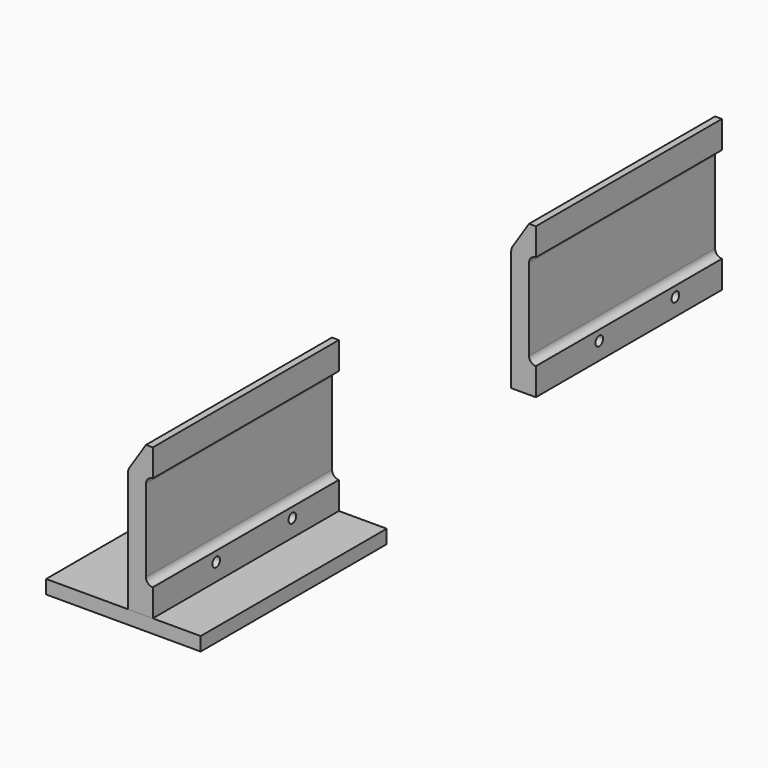
from build123d import *

# Parameters (mm, degrees)
F2_DEPTH = 170
F4_R     = 1.5
F5_DEPTH = 10.001
F6_R     = 3.5
F7_DEPTH = 53.001
F8_W     = 9
F8_H     = 9
F8_R     = 1.5
F9_DEPTH = 4


with BuildPart() as f2:
    # F1 (on Front) → F2 (new body)
    with BuildSketch(Plane.XZ):
        with BuildLine():
            Line((18, 51.6239212343), (18, 71.6239212343))
            Line((18, 71.6239212343), (13, 71.6239212343))
            Line((13, 71.6239212343), (0.8077819185, 52.8666626474))
            ThreePointArc((0.8077819185, 52.8666626474), (0.2061972085, 51.5627961198), (0, 50.1417208944))
            Line((0, 50.1417208944), (0, -38.3760787657))
            Line((0, -38.3760787657), (18, -38.3760787657))
            Line((18, -38.3760787657), (18, -18.3760787657))
            ThreePointArc((18, -18.3760787657), (14.4644660941, -16.9116126716), (13, -13.3760787657))
            Line((13, -13.3760787657), (13, 46.6239212343))
            ThreePointArc((13, 46.6239212343), (14.4644660941, 50.1594551402), (18, 51.6239212343))
        make_face()
    extrude(amount=-F2_DEPTH)

    # F6 (on face) → F7 (cut, through all)
    with BuildSketch(Plane(origin=(0, 0, 0), x_dir=(0, -1, 0), z_dir=(-1, 0, 0))):
        with Locations((-127.5, -25.6760787657)):
            Circle(F6_R)
        with Locations((-57.95, -25.6760787657)):
            Circle(F6_R)
    extrude(amount=-F7_DEPTH, mode=Mode.SUBTRACT)


with BuildPart() as f2b:
    # F0 (on Front) → F2, piece 2 (new body)
    with BuildSketch(Plane.XZ):
        Polygon((18, -38.3760787657), (0, -38.3760787657), (-60, -38.3760787657), (-60, -48.3760787657), (53, -48.3760787657), (53, -38.3760787657), align=None)
    extrude(amount=-F2_DEPTH)

    # F4 (on face) → F5 (cut, through all)
    with BuildSketch(Plane.XY.offset(-38.3760787657)):
        with Locations((-17.1, 120)):
            Circle(F4_R)
        with Locations((-33, 120)):
            Circle(F4_R)
        with Locations((-17.1, 135.9)):
            Circle(F4_R)
        with Locations((-17.1, 65.9)):
            Circle(F4_R)
        with Locations((-17.1, 50)):
            Circle(F4_R)
        with Locations((-33, 50)):
            Circle(F4_R)
    extrude(amount=-F5_DEPTH, mode=Mode.SUBTRACT)

    # F8 (on face) → F9 (cut)
    with BuildSketch(Plane(origin=(0, 0, -48.3760787657), x_dir=(1, 0, 0), z_dir=(0, 0, -1))):
        with Locations((-17.0500762761, -135.6344968081)):
            Rectangle(F8_W, F8_H)
        with Locations((-17.1, -135.9)):
            Circle(F8_R, mode=Mode.SUBTRACT)
        with Locations((-32.7563302517, -119.9616284966)):
            Rectangle(F8_W, F8_H)
        with Locations((-33, -120)):
            Circle(F8_R, mode=Mode.SUBTRACT)
        with Locations((-16.5746349376, -119.4694936275)):
            Rectangle(F8_W, F8_H)
        with Locations((-17.1, -120)):
            Circle(F8_R, mode=Mode.SUBTRACT)
        with Locations((-17.2877963632, -65.9823529422)):
            Rectangle(F8_W, F8_H)
        with Locations((-17.1, -65.9)):
            Circle(F8_R, mode=Mode.SUBTRACT)
        with Locations((-32.7396392822, -49.8173460364)):
            Rectangle(F8_W, F8_H)
        with Locations((-33, -50)):
            Circle(F8_R, mode=Mode.SUBTRACT)
        with Locations((-17.2877954319, -50.0550717115)):
            Rectangle(F8_W, F8_H)
        with Locations((-17.1, -50)):
            Circle(F8_R, mode=Mode.SUBTRACT)
    extrude(amount=-F9_DEPTH, mode=Mode.SUBTRACT)


with BuildPart() as f10_1:
    # F10: copy of F2
    add(f2.part)


with BuildPart() as f12_1:
    # F12: copy of F2
    add(f2.part.moved(Location((0, 350, 0))))


solid = Compound([f2.part, f2b.part, f12_1.part])
